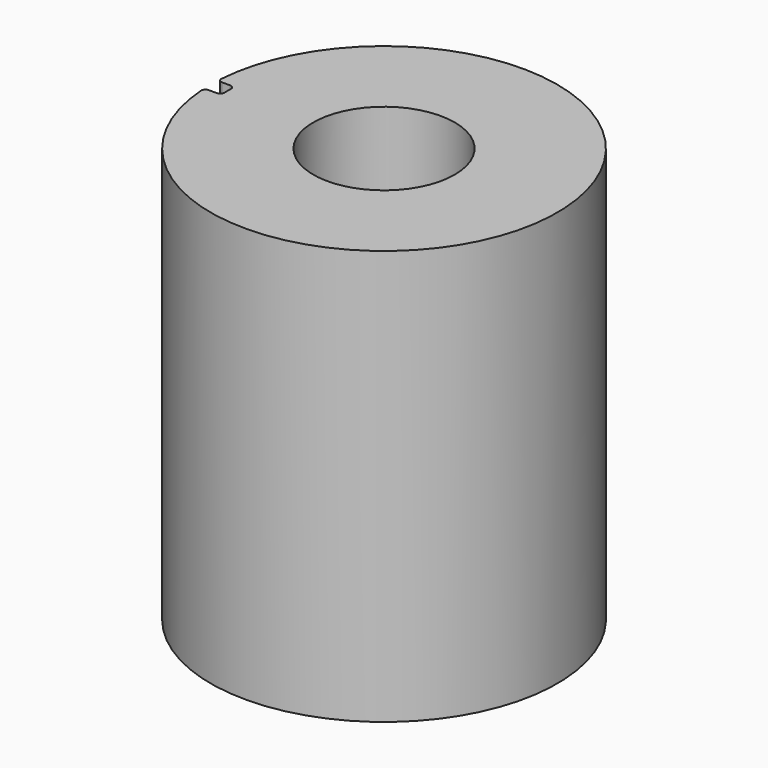
from build123d import *

# Parameters (mm, degrees)
F0_R     = 8.45
F1_DEPTH = 49.53


with BuildPart() as f1:
    # F0 (on Top) → F1 (new body)
    with BuildSketch(Plane.XY):
        with BuildLine():
            ThreePointArc((-20.14423, -1), (-20.510675, -1.159827), (-20.642849, -1.537129))
            ThreePointArc((-20.642849, -1.537129), (20.7, 0), (-20.642849, 1.537129))
            ThreePointArc((-20.642849, 1.537129), (-20.510675, 1.159827), (-20.14423, 1))
            Line((-20.14423, 1), (-19.175831, 1))
            ThreePointArc((-19.175831, 1), (-18.822278, 0.853553), (-18.675831, 0.5))
            Line((-18.675831, 0.5), (-18.675831, -0.5))
            ThreePointArc((-18.675831, -0.5), (-18.822278, -0.853553), (-19.175831, -1))
            Line((-19.175831, -1), (-20.14423, -1))
        make_face()
        Circle(F0_R, mode=Mode.SUBTRACT)
    extrude(amount=F1_DEPTH)


solid = f1.part
